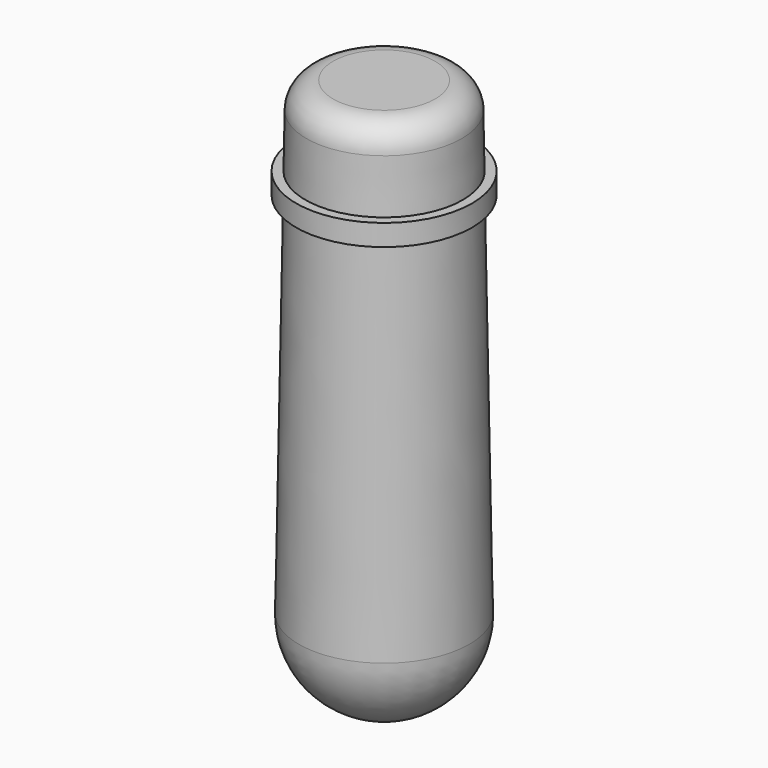
from build123d import *

# Parameters (mm, degrees)
F2_R = 5


with BuildPart() as f1:
    # F0 (on Front) → F1 (revolve)
    with BuildSketch(Plane.XZ):
        Polygon((14.5, 43.756097), (0, 43.756097), (0, -44.243903), (16, -44.243903), (14.823864, 24.756097), (14.755682, 28.756097), align=None)
        with BuildLine():
            Line((16, -44.243903), (0, -44.243903))
            Line((0, -44.243903), (0, -60.243903))
            ThreePointArc((0, -60.243903), (11.313708, -55.557611), (16, -44.243903))
        make_face()
        Polygon((16.5, 28.756097), (14.755682, 28.756097), (14.823864, 24.756097), (16.5, 24.756097), align=None)
    revolve(axis=Axis((0, 0, -8.243903), (0, 0, -1)))

    # F2
    f2_edges = [f1.edges().sort_by_distance(p)[0] for p in [
        (-14.5, 0, 43.756097),
    ]]
    fillet(f2_edges, radius=F2_R)


solid = f1.part
